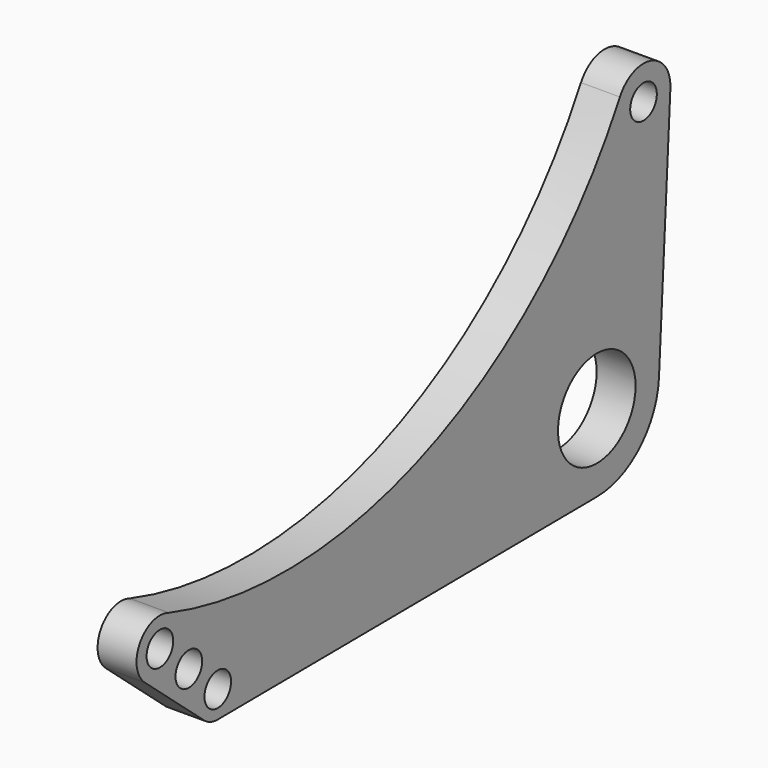
from build123d import *

# Parameters (mm, degrees)
F0_R     = 5.42925
F0_R_2   = 15.8115
F1_DEPTH = 12.7


with BuildPart() as f1:
    # F0 (on Right) → F1 (new body)
    with BuildSketch(Plane.YZ):
        with BuildLine():
            Line((-154.488795, -26.534761), (0, -25.4))
            ThreePointArc((0, -25.4), (17.438947, -18.467353), (25.358361, -1.45379))
            Line((25.358361, -1.45379), (30.010518, 79.693488))
            ThreePointArc((30.010518, 79.693488), (22.077109, 90.874786), (9.422991, 85.59902))
            ThreePointArc((9.422991, 85.59902), (-69.333406, 15.888309), (-174.446099, 12.217438))
            ThreePointArc((-174.446099, 12.217438), (-186.251925, 8.445986), (-184.337166, -3.798813))
            Line((-184.337166, -3.798813), (-160.687818, -24.016462))
            ThreePointArc((-160.687818, -24.016462), (-157.839108, -25.892982), (-154.488795, -26.534761))
        make_face()
        with Locations((-154.552927, -17.803746)):
            Circle(F0_R, mode=Mode.SUBTRACT)
        with Locations((-166.350351, -7.181298)):
            Circle(F0_R, mode=Mode.SUBTRACT)
        with Locations((-178.147775, 3.441151)):
            Circle(F0_R, mode=Mode.SUBTRACT)
        Circle(F0_R_2, mode=Mode.SUBTRACT)
        with Locations((19.05, 80.321853)):
            Circle(F0_R, mode=Mode.SUBTRACT)
    extrude(amount=F1_DEPTH)


solid = f1.part
